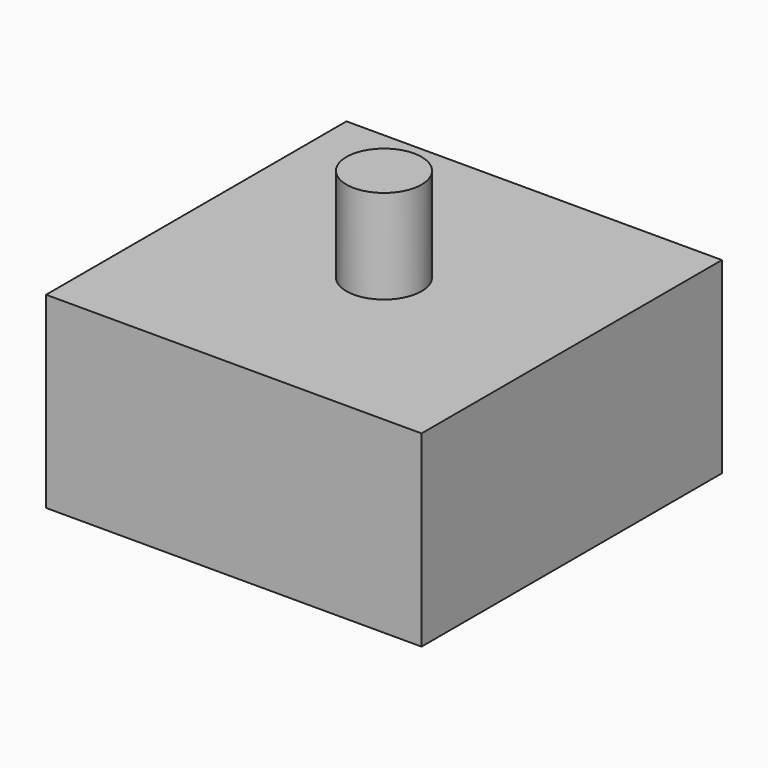
from build123d import *

# Parameters (mm, degrees)
SKETCH_W     = 200
SKETCH_H     = 200
PAD_DEPTH    = 100
SKETCH001_R  = 20
PAD001_DEPTH = 50


with BuildPart() as part:
    # Sketch → Pad (new body)
    with BuildSketch(Plane.XY):
        Rectangle(SKETCH_W, SKETCH_H)
    extrude(amount=PAD_DEPTH)

    # Sketch001 → Pad001 (new body)
    with BuildSketch(Plane.XY.offset(100)):
        Circle(SKETCH001_R)
    extrude(amount=PAD001_DEPTH)


solid = part.part
